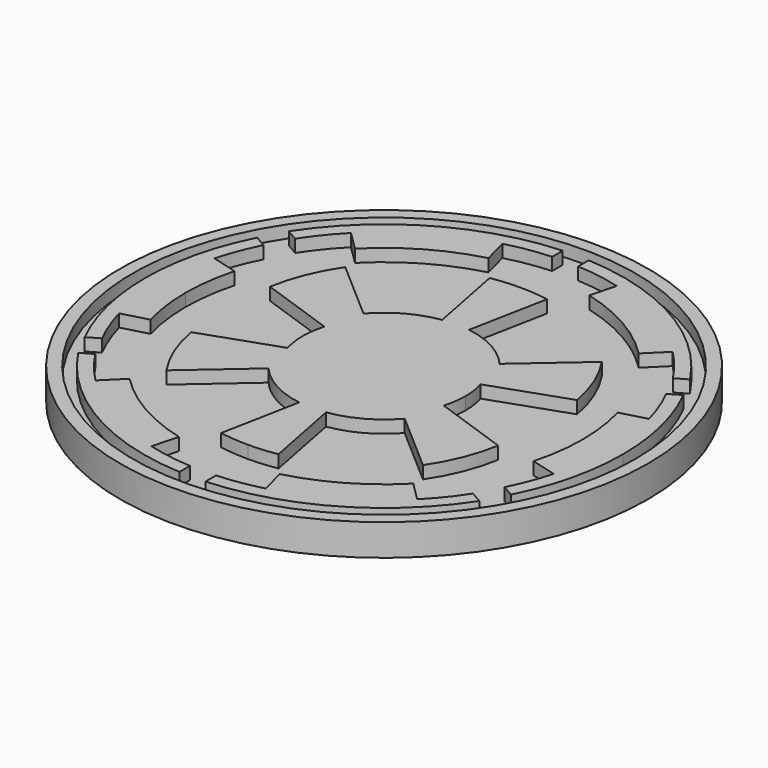
from build123d import *

# Parameters (mm, degrees)
F2_R     = 53.34
F3_DEPTH = 6.35
F0_R     = 50.8
F4_DEPTH = 2.54
F5_DEPTH = 2.54


with BuildPart() as f3:
    # F2 (on Top) → F3 (new body)
    with BuildSketch(Plane.XY):
        Circle(F2_R)
    extrude(amount=-F3_DEPTH)

    # F0 (on Top) → F4 (cut)
    with BuildSketch(Plane.XY):
        Circle(F0_R)
    extrude(amount=-F4_DEPTH, mode=Mode.SUBTRACT)

    # F1 (on Top) → F5 (join)
    with BuildSketch(Plane.XY):
        with BuildLine():
            ThreePointArc((-43.063388, 21.784679), (-46.942873, 11.197957), (-48.26, 0))
            ThreePointArc((-48.26, 0), (-46.942873, -11.197957), (-43.063388, -21.784679))
            Line((-43.063388, -21.784679), (-40.692139, -20.398091))
            ThreePointArc((-40.692139, -20.398091), (-42.512578, -16.297657), (-43.915142, -12.036159))
            Line((-43.915142, -12.036159), (-38.702908, -10.612585))
            ThreePointArc((-38.702908, -10.612585), (-39.772793, -5.354158), (-40.13156, 0))
            ThreePointArc((-40.13156, 0), (-39.772793, 5.354158), (-38.702908, 10.612585))
            Line((-38.702908, 10.612585), (-43.915142, 12.036159))
            ThreePointArc((-43.915142, 12.036159), (-42.512578, 16.297657), (-40.692139, 20.398091))
            Line((-40.692139, 20.398091), (-43.063388, 21.784679))
        make_face()
        with BuildLine():
            Line((-38.165818, -25.239456), (-40.531515, -26.604988))
            ThreePointArc((-40.531515, -26.604988), (-24.179309, -42.023686), (-2.631168, -48.411839))
            Line((-2.631168, -48.411839), (-2.631168, -45.742772))
            ThreePointArc((-2.631168, -45.742772), (-7.132062, -45.269114), (-11.555377, -44.311676))
            Line((-11.555377, -44.311676), (-10.181512, -39.106512))
            ThreePointArc((-10.181512, -39.106512), (-20.139594, -35.033973), (-28.670142, -28.478157))
            Line((-28.670142, -28.478157), (-32.500429, -32.26304))
            ThreePointArc((-32.500429, -32.26304), (-35.517393, -28.899884), (-38.165818, -25.239456))
        make_face()
        with BuildLine():
            Line((-2.71646, -18.05863), (-5.79492, -33.915079))
            ThreePointArc((-5.79492, -33.915079), (-2.907863, -34.283495), (0, -34.406594))
            ThreePointArc((0, -34.406594), (2.907863, -34.283495), (5.79492, -33.915079))
            Line((5.79492, -33.915079), (2.71646, -18.05863))
            ThreePointArc((2.71646, -18.05863), (8.779304, -16.013029), (13.764323, -12.001529))
            Line((13.764323, -12.001529), (25.921796, -22.591443))
            ThreePointArc((25.921796, -22.591443), (29.145002, -16.549346), (31.013678, -9.961172))
            Line((31.013678, -9.961172), (15.781759, -4.649021))
            ThreePointArc((15.781759, -4.649021), (16.283782, -2.348563), (16.452274, 0))
            ThreePointArc((16.452274, 0), (16.283782, 2.348563), (15.781759, 4.649021))
            Line((15.781759, 4.649021), (31.013678, 9.961172))
            ThreePointArc((31.013678, 9.961172), (29.145002, 16.549346), (25.921796, 22.591443))
            Line((25.921796, 22.591443), (13.764323, 12.001529))
            ThreePointArc((13.764323, 12.001529), (8.779304, 16.013029), (2.71646, 18.05863))
            Line((2.71646, 18.05863), (5.79492, 33.915079))
            ThreePointArc((5.79492, 33.915079), (2.907863, 34.283495), (0, 34.406594))
            ThreePointArc((0, 34.406594), (-2.907863, 34.283495), (-5.79492, 33.915079))
            Line((-5.79492, 33.915079), (-2.71646, 18.05863))
            ThreePointArc((-2.71646, 18.05863), (-8.779304, 16.013029), (-13.764323, 12.001529))
            Line((-13.764323, 12.001529), (-25.921796, 22.591443))
            ThreePointArc((-25.921796, 22.591443), (-29.145002, 16.549346), (-31.013678, 9.961172))
            Line((-31.013678, 9.961172), (-15.781759, 4.649021))
            ThreePointArc((-15.781759, 4.649021), (-16.283782, 2.348563), (-16.452274, 0))
            ThreePointArc((-16.452274, 0), (-16.283782, -2.348563), (-15.781759, -4.649021))
            Line((-15.781759, -4.649021), (-31.013678, -9.961172))
            ThreePointArc((-31.013678, -9.961172), (-29.145002, -16.549346), (-25.921796, -22.591443))
            Line((-25.921796, -22.591443), (-13.764323, -12.001529))
            ThreePointArc((-13.764323, -12.001529), (-8.779304, -16.013029), (-2.71646, -18.05863))
        make_face()
        with BuildLine():
            Line((2.631168, -45.742772), (2.631168, -48.411839))
            ThreePointArc((2.631168, -48.411839), (24.179309, -42.023686), (40.531515, -26.604988))
            Line((40.531515, -26.604988), (38.165818, -25.239456))
            ThreePointArc((38.165818, -25.239456), (35.517393, -28.899884), (32.500429, -32.26304))
            Line((32.500429, -32.26304), (28.670142, -28.478157))
            ThreePointArc((28.670142, -28.478157), (20.139594, -35.033973), (10.181512, -39.106512))
            Line((10.181512, -39.106512), (11.555377, -44.311676))
            ThreePointArc((11.555377, -44.311676), (7.132062, -45.269114), (2.631168, -45.742772))
        make_face()
        with BuildLine():
            ThreePointArc((40.13156, 0), (39.772793, -5.354158), (38.702908, -10.612585))
            Line((38.702908, -10.612585), (43.915142, -12.036159))
            ThreePointArc((43.915142, -12.036159), (42.512578, -16.297657), (40.692139, -20.398091))
            Line((40.692139, -20.398091), (43.063388, -21.784679))
            ThreePointArc((43.063388, -21.784679), (46.942873, -11.197957), (48.26, 0))
            ThreePointArc((48.26, 0), (46.942873, 11.197957), (43.063388, 21.784679))
            Line((43.063388, 21.784679), (40.692139, 20.398091))
            ThreePointArc((40.692139, 20.398091), (42.512578, 16.297657), (43.915142, 12.036159))
            Line((43.915142, 12.036159), (38.702908, 10.612585))
            ThreePointArc((38.702908, 10.612585), (39.772793, 5.354158), (40.13156, 0))
        make_face()
        with BuildLine():
            ThreePointArc((40.531515, 26.604988), (24.179309, 42.023686), (2.631168, 48.411839))
            Line((2.631168, 48.411839), (2.631168, 45.742772))
            ThreePointArc((2.631168, 45.742772), (7.132062, 45.269114), (11.555377, 44.311676))
            Line((11.555377, 44.311676), (10.181512, 39.106512))
            ThreePointArc((10.181512, 39.106512), (20.139594, 35.033973), (28.670142, 28.478157))
            Line((28.670142, 28.478157), (32.500429, 32.26304))
            ThreePointArc((32.500429, 32.26304), (35.517393, 28.899884), (38.165818, 25.239456))
            Line((38.165818, 25.239456), (40.531515, 26.604988))
        make_face()
        with BuildLine():
            ThreePointArc((-2.631168, 48.411839), (-24.179309, 42.023686), (-40.531515, 26.604988))
            Line((-40.531515, 26.604988), (-38.165818, 25.239456))
            ThreePointArc((-38.165818, 25.239456), (-35.517393, 28.899884), (-32.500429, 32.26304))
            Line((-32.500429, 32.26304), (-28.670142, 28.478157))
            ThreePointArc((-28.670142, 28.478157), (-20.139594, 35.033973), (-10.181512, 39.106512))
            Line((-10.181512, 39.106512), (-11.555377, 44.311676))
            ThreePointArc((-11.555377, 44.311676), (-7.132062, 45.269114), (-2.631168, 45.742772))
            Line((-2.631168, 45.742772), (-2.631168, 48.411839))
        make_face()
    extrude(amount=-F5_DEPTH)


solid = f3.part
